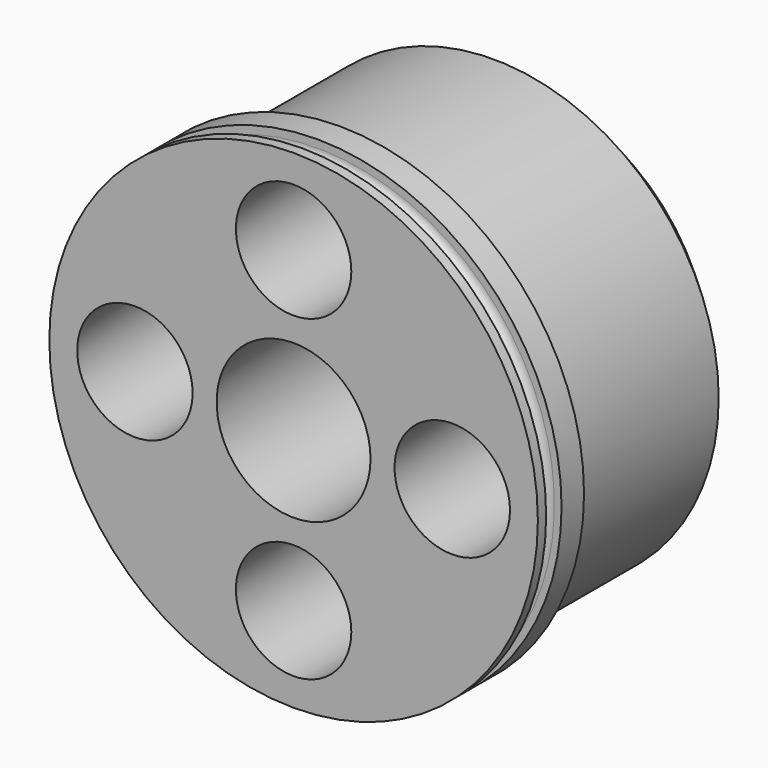
from build123d import *

# Parameters (mm, degrees)
F0_R     = 11.7
F0_R_2   = 3
F0_R_3   = 4
F0_R_4   = 12.7
F1_DEPTH = 3
F2_DEPTH = 15
F3_DEPTH = 10
F7_SIZE  = 2


with BuildPart() as f1:
    # F0 (on Front) → F1 (new body)
    with BuildSketch(Plane.XZ):
        with Locations((-0.008065, 0.0265)):
            Circle(F0_R)
        with Locations((-0.008065, -8.2235)):
            Circle(F0_R_2, mode=Mode.SUBTRACT)
        with Locations((-8.258065, 0.0265)):
            Circle(F0_R_2, mode=Mode.SUBTRACT)
        with Locations((-0.008065, 0.0265)):
            Circle(F0_R_3, mode=Mode.SUBTRACT)
        with Locations((8.241935, 0.0265)):
            Circle(F0_R_2, mode=Mode.SUBTRACT)
        with Locations((-0.008065, 8.2765)):
            Circle(F0_R_2, mode=Mode.SUBTRACT)
        with Locations((-0.008065, 0.0265)):
            Circle(F0_R_4)
        with Locations((-0.008065, 0.0265)):
            Circle(F0_R, mode=Mode.SUBTRACT)
        with Locations((-8.258065, 0.0265)):
            Circle(F0_R_2)
        with Locations((-0.008065, -8.2235)):
            Circle(F0_R_2)
        with Locations((8.241935, 0.0265)):
            Circle(F0_R_2)
        with Locations((-0.008065, 8.2765)):
            Circle(F0_R_2)
    extrude(amount=-F1_DEPTH)

    # F0 (on Front) → F2 (join)
    with BuildSketch(Plane.XZ):
        with Locations((-0.008065, 0.0265)):
            Circle(F0_R)
        with Locations((-0.008065, -8.2235)):
            Circle(F0_R_2, mode=Mode.SUBTRACT)
        with Locations((-8.258065, 0.0265)):
            Circle(F0_R_2, mode=Mode.SUBTRACT)
        with Locations((-0.008065, 0.0265)):
            Circle(F0_R_3, mode=Mode.SUBTRACT)
        with Locations((8.241935, 0.0265)):
            Circle(F0_R_2, mode=Mode.SUBTRACT)
        with Locations((-0.008065, 8.2765)):
            Circle(F0_R_2, mode=Mode.SUBTRACT)
        with Locations((-8.258065, 0.0265)):
            Circle(F0_R_2)
        with Locations((-0.008065, 8.2765)):
            Circle(F0_R_2)
        with Locations((8.241935, 0.0265)):
            Circle(F0_R_2)
        with Locations((-0.008065, -8.2235)):
            Circle(F0_R_2)
    extrude(amount=-F2_DEPTH)

    # F0 (on Front) → F3 (cut)
    with BuildSketch(Plane.XZ):
        with Locations((-8.258065, 0.0265)):
            Circle(F0_R_2)
        with Locations((-0.008065, 8.2765)):
            Circle(F0_R_2)
        with Locations((8.241935, 0.0265)):
            Circle(F0_R_2)
        with Locations((-0.008065, -8.2235)):
            Circle(F0_R_2)
    extrude(amount=-F3_DEPTH, mode=Mode.SUBTRACT)

    # F4 (on Top) → F5 (revolve, cut)
    with BuildSketch(Plane.XY):
        with BuildLine():
            Line((-13.744461, 0.538489), (-12.316881, 0.538489))
            ThreePointArc((-12.316881, 0.538489), (-11.816881, 1.038489), (-12.316881, 1.538489))
            Line((-12.316881, 1.538489), (-12.716881, 1.538489))
            Line((-12.716881, 1.538489), (-13.744461, 1.538489))
            Line((-13.744461, 1.538489), (-13.744461, 0.538489))
        make_face()
    revolve(axis=Axis((0, 1.278264, 0), (0, 1, 0)), mode=Mode.SUBTRACT)

    # F4 (on Top) → F6 (revolve, cut)
    with BuildSketch(Plane.XY):
        with BuildLine():
            Line((-13.744461, 0.538489), (-12.316881, 0.538489))
            ThreePointArc((-12.316881, 0.538489), (-11.816881, 1.038489), (-12.316881, 1.538489))
            Line((-12.316881, 1.538489), (-12.716881, 1.538489))
            Line((-12.716881, 1.538489), (-13.744461, 1.538489))
            Line((-13.744461, 1.538489), (-13.744461, 0.538489))
        make_face()
    revolve(axis=Axis((0, 1.278264, 0), (0, 1, 0)), mode=Mode.SUBTRACT)

    # F7
    f7_edges = [f1.edges().sort_by_distance(p)[0] for p in [
        (-11.708065, 15, 0.0265),
    ]]
    chamfer(f7_edges, length=F7_SIZE)


solid = f1.part
